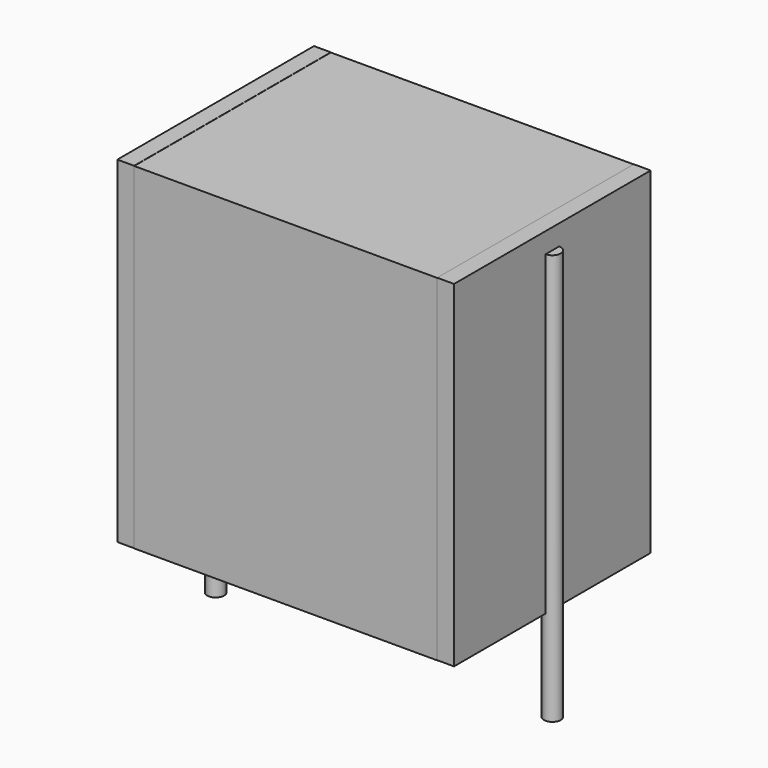
from build123d import *

# Parameters (mm, degrees)
SKETCH_W          = 9
SKETCH_H          = 7.3
PAD_DEPTH         = 10
SKETCH001_R       = 0.25
PAD001_DEPTH      = 9
PAD001_DEPTH_BACK = 3.2
SKETCH002_W       = 0.5
SKETCH002_H       = 7.3
PAD002_DEPTH      = 10


with BuildPart() as pad:
    # Sketch → Pad (new body)
    with BuildSketch(Plane.XY.offset(0.1)):
        with Locations((5, 0)):
            Rectangle(SKETCH_W, SKETCH_H)
    extrude(amount=PAD_DEPTH)


with BuildPart() as pad001:
    # Sketch001 → Pad001 (new body, two sides)
    with BuildSketch(Plane.XY.offset(0.5)) as pad001_sk:
        Circle(SKETCH001_R)
        with Locations((10, 0)):
            Circle(SKETCH001_R)
    extrude(amount=PAD001_DEPTH)
    extrude(pad001_sk.sketch, amount=-PAD001_DEPTH_BACK)


with BuildPart() as pad002:
    # Sketch002 → Pad002 (new body)
    with BuildSketch(Plane.XY.offset(0.105)):
        with Locations((0.25, 0)):
            Rectangle(SKETCH002_W, SKETCH002_H)
        with Locations((9.75, 0)):
            Rectangle(SKETCH002_W, SKETCH002_H)
    extrude(amount=PAD002_DEPTH)


solid = Compound([pad.part, pad001.part, pad002.part])
